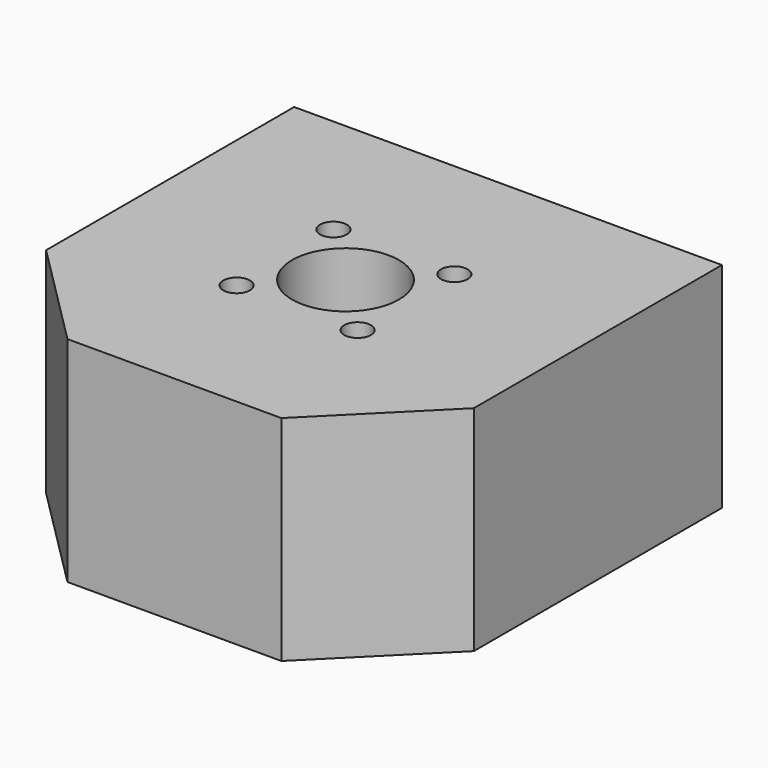
from build123d import *

# Parameters (mm, degrees)
F0_W     = 40
F0_H     = 39
F0_R     = 1.25
F0_R_2   = 5
F1_DEPTH = 20
F2_SIZE  = 10
F3_R     = 2.5
F4_DEPTH = 25


with BuildPart() as f1:
    # F0 (on Top) → F1 (new body)
    with BuildSketch(Plane.XY):
        Rectangle(F0_W, F0_H)
        with Locations((-5.656854, -5.156854)):
            Circle(F0_R, mode=Mode.SUBTRACT)
        with Locations((5.656854, -5.156854)):
            Circle(F0_R, mode=Mode.SUBTRACT)
        with Locations((-5.656854, 6.156854)):
            Circle(F0_R, mode=Mode.SUBTRACT)
        with Locations((0, 0.5)):
            Circle(F0_R_2, mode=Mode.SUBTRACT)
        with Locations((5.656854, 6.156854)):
            Circle(F0_R, mode=Mode.SUBTRACT)
    extrude(amount=F1_DEPTH)

    # F2
    f2_edges = [f1.edges().sort_by_distance(p)[0] for p in [
        (-20, -19.5, 10),
        (20, -19.5, 10),
    ]]
    chamfer(f2_edges, length=F2_SIZE)

    # F3 (on face) → F4 (cut)
    with BuildSketch(Plane(origin=(0, 19.5, 0), x_dir=(-1, 0, 0), z_dir=(0, 1, 0))):
        with Locations((14, 10)):
            Circle(F3_R)
        with Locations((-14, 10)):
            Circle(F3_R)
    extrude(amount=-F4_DEPTH, mode=Mode.SUBTRACT)


solid = f1.part
